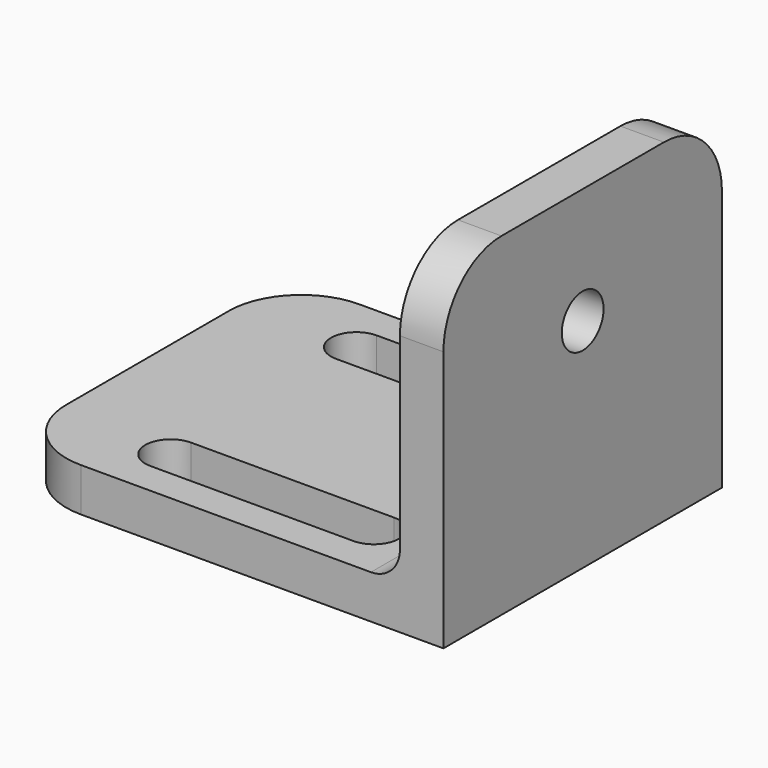
from build123d import *

# Parameters (mm, degrees)
F1_DEPTH = 24
F2_R     = 2
F3_R     = 1.8
F4_DEPTH = 30.001
F5_R     = 5
F7_DEPTH = 23.001


with BuildPart() as f1:
    # F0 (on Front) → F1 (new body)
    with BuildSketch(Plane.XZ):
        Polygon((-30, 0), (0, 0), (0, 23), (-3, 23), (-3, 3), (-30, 3), align=None)
    extrude(amount=F1_DEPTH)

    # F2
    f2_edges = [f1.edges().sort_by_distance(p)[0] for p in [
        (-3, -12, 3),
    ]]
    fillet(f2_edges, radius=F2_R)

    # F3 (on face) → F4 (cut, through all)
    with BuildSketch(Plane.YZ):
        with Locations((-12, 15)):
            Circle(F3_R)
    extrude(amount=-F4_DEPTH, mode=Mode.SUBTRACT)

    # F5
    f5_edges = [f1.edges().sort_by_distance(p)[0] for p in [
        (-1.5, -24, 23),
        (-1.5, 0, 23),
        (-30, -24, 1.5),
        (-30, 0, 1.5),
    ]]
    fillet(f5_edges, radius=F5_R)

    # F6 (on face) → F7 (cut, through all)
    with BuildSketch(Plane(origin=(0, 0, 0), x_dir=(1, 0, 0), z_dir=(0, 0, -1))):
        with BuildLine():
            ThreePointArc((-8, 18.25), (-6.25, 20), (-8, 21.75))
            Line((-8, 21.75), (-22, 21.75))
            ThreePointArc((-22, 21.75), (-23.75, 20), (-22, 18.25))
            Line((-22, 18.25), (-8, 18.25))
        make_face()
        with BuildLine():
            Line((-22, 2.25), (-8, 2.25))
            ThreePointArc((-8, 2.25), (-6.25, 4), (-8, 5.75))
            Line((-8, 5.75), (-22, 5.75))
            ThreePointArc((-22, 5.75), (-23.75, 4), (-22, 2.25))
        make_face()
    extrude(amount=-F7_DEPTH, mode=Mode.SUBTRACT)


solid = f1.part
